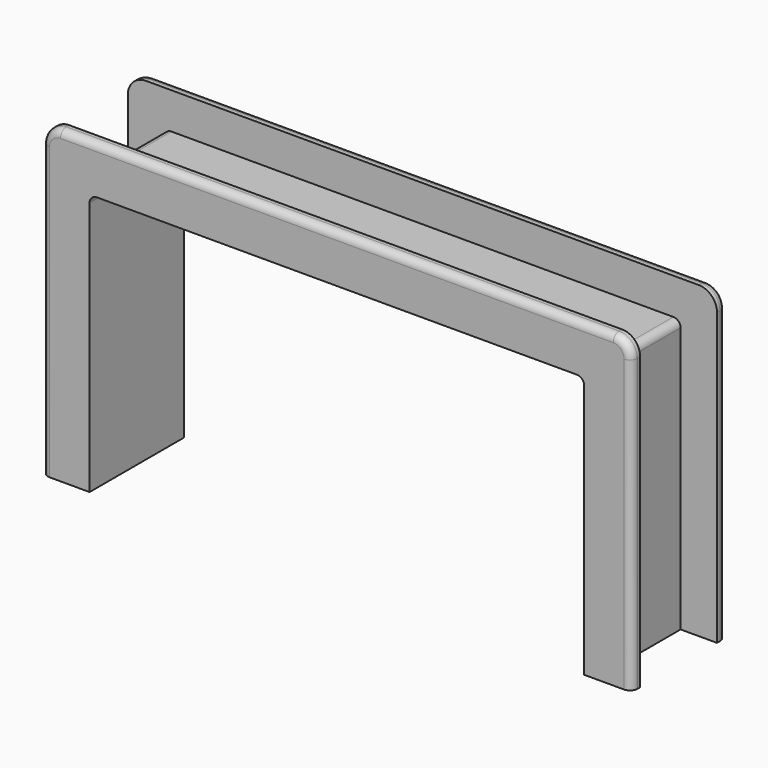
from build123d import *

# Parameters (mm, degrees)
BOX003_W     = 136
BOX003_H     = 40
BOX003_DEPTH = 85
BOX002_W     = 20
BOX002_H     = 26.4
BOX002_DEPTH = 100
BOX001_W     = 20
BOX001_H     = 26.4
BOX001_DEPTH = 92
BOX_W        = 170
BOX_H        = 26.4
BOX_DEPTH    = 20
PAD_DEPTH    = 32.4
FILLET_R     = 2
FILLET001_R  = 2
FILLET002_R  = 2
FILLET003_R  = 2
FILLET004_R  = 2


with BuildPart() as cubedessous:
    # Box003 → Box003 (new body)
    with BuildSketch(Plane(origin=(13, -36, -13), x_dir=(1, 0, 0), z_dir=(0, 0, 1))):
        with Locations((68, 20)):
            Rectangle(BOX003_W, BOX003_H)
    extrude(amount=BOX003_DEPTH)


with BuildPart() as cubedroite:
    # Box002 → Box002 (new body)
    with BuildSketch(Plane(origin=(152, -29.4, -11), x_dir=(1, 0, 0), z_dir=(0, 0, 1))):
        with Locations((10, 13.2)):
            Rectangle(BOX002_W, BOX002_H)
    extrude(amount=BOX002_DEPTH)


with BuildPart() as cubegauche:
    # Box001 → Box001 (new body)
    with BuildSketch(Plane(origin=(-10, -29.4, -4), x_dir=(1, 0, 0), z_dir=(0, 0, 1))):
        with Locations((10, 13.2)):
            Rectangle(BOX001_W, BOX001_H)
    extrude(amount=BOX001_DEPTH)


with BuildPart() as cubedessus:
    # Box → Box (new body)
    with BuildSketch(Plane(origin=(-4, -29.4, 75), x_dir=(1, 0, 0), z_dir=(0, 0, 1))):
        with Locations((85, 13.2)):
            Rectangle(BOX_W, BOX_H)
    extrude(amount=BOX_DEPTH)


with BuildPart() as fillet004:
    # Sketch → Pad (new body)
    with BuildSketch(Plane.XZ):
        with BuildLine():
            ThreePointArc((5, 85), (1.464466, 83.535534), (0, 80))
            Line((0, 0), (0, 80))
            Line((0, 0), (162, 0))
            Line((162, 80), (162, 0))
            ThreePointArc((162, 80), (160.535534, 83.535534), (157, 85))
            Line((5, 85), (157, 85))
        make_face()
    extrude(amount=PAD_DEPTH)

    # Cut: cut CubeDessus
    add(cubedessus.part, mode=Mode.SUBTRACT)

    # Cut001: cut CubeGauche
    add(cubegauche.part, mode=Mode.SUBTRACT)

    # Cut002: cut CubeDroite
    add(cubedroite.part, mode=Mode.SUBTRACT)

    # Cut003: cut CubeDessous
    add(cubedessous.part, mode=Mode.SUBTRACT)

    # Fillet
    fillet_edges = [fillet004.edges().sort_by_distance(p)[0] for p in [
        (152, -16.2, 75),
    ]]
    fillet(fillet_edges, radius=FILLET_R)

    # Fillet001
    fillet001_edges = [fillet004.edges().sort_by_distance(p)[0] for p in [
        (10, -16.2, 75),
    ]]
    fillet(fillet001_edges, radius=FILLET001_R)

    # Fillet002
    fillet002_edges = [fillet004.edges().sort_by_distance(p)[0] for p in [
        (81, -32.4, 85),
        (1.464466, -32.4, 83.535534),
        (0, -32.4, 40),
        (162, -32.4, 40),
        (160.535534, -32.4, 83.535534),
    ]]
    fillet(fillet002_edges, radius=FILLET002_R)

    # Fillet003
    fillet003_edges = [fillet004.edges().sort_by_distance(p)[0] for p in [
        (1.464466, 0, 83.535534),
        (0, 0, 40),
        (162, 0, 40),
        (160.535534, 0, 83.535534),
        (81, 0, 85),
    ]]
    fillet(fillet003_edges, radius=FILLET003_R)

    # Fillet004
    fillet004_edges = [fillet004.edges().sort_by_distance(p)[0] for p in [
        (13, -16.2, 72),
        (149, -16.2, 72),
    ]]
    fillet(fillet004_edges, radius=FILLET004_R)


solid = fillet004.part
